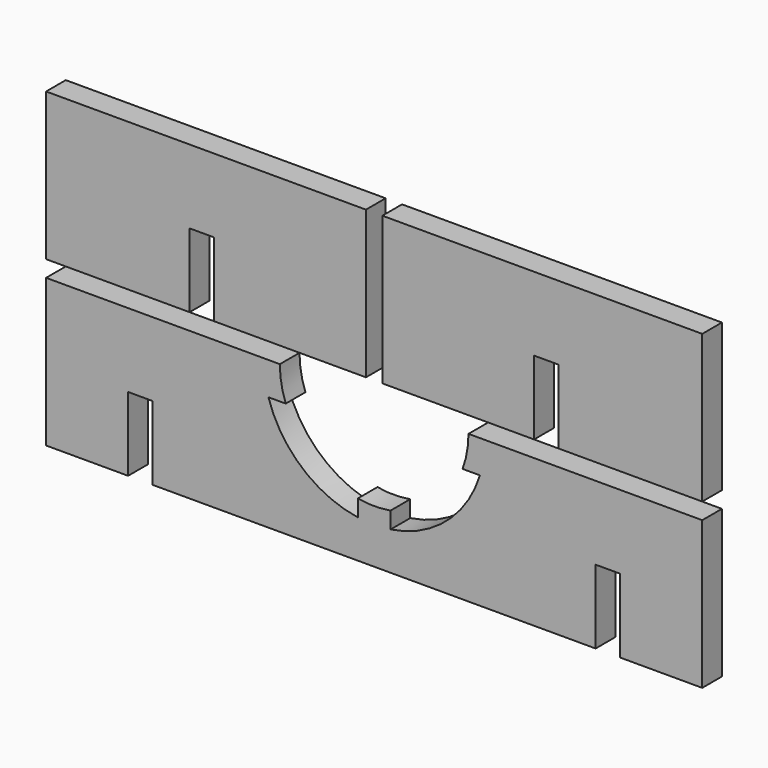
from build123d import *

# Parameters (mm, degrees)
F0_W     = 80
F0_H     = 18
F1_DEPTH = 3
F2_W     = 3
F2_H     = 9
F3_DEPTH = 3
F4_W     = 39
F4_H     = 18
F5_DEPTH = 3
F6_W     = 3
F6_H     = 9
F7_DEPTH = 3
F8_W     = 3
F8_H     = 9
F9_DEPTH = 3


with BuildPart() as f1:
    # F0 (on Front) → F1 (new body)
    with BuildSketch(Plane.XZ):
        Rectangle(F0_W, F0_H)
    extrude(amount=F1_DEPTH)

    # F2 (on face) → F3 (cut, through all)
    with BuildSketch(Plane.XZ.offset(3)):
        with BuildLine():
            ThreePointArc((-2, -2.324752), (-7.365964, 0.16866), (-10.781929, 5))
            Line((-10.781929, 5), (-12.893797, 5))
            ThreePointArc((-12.893797, 5), (-8.792994, -1.243694), (-2, -4.35103))
            Line((-2, -4.35103), (-2, -2.324752))
        make_face()
        with BuildLine():
            ThreePointArc((10.781929, 5), (7.365964, 0.16866), (2, -2.324752))
            Line((2, -2.324752), (2, -4.35103))
            ThreePointArc((2, -4.35103), (8.792994, -1.243694), (12.893797, 5))
            Line((12.893797, 5), (10.781929, 5))
        make_face()
        with Locations((-28.5, -4.5)):
            Rectangle(F2_W, F2_H)
        with Locations((28.5, -4.5)):
            Rectangle(F2_W, F2_H)
        with BuildLine():
            ThreePointArc((-11.5, 9), (-11.319059, 6.968029), (-10.781929, 5))
            ThreePointArc((-10.781929, 5), (-7.365964, 0.16866), (-2, -2.324752))
            ThreePointArc((-2, -2.324752), (0, -2.5), (2, -2.324752))
            ThreePointArc((2, -2.324752), (7.365964, 0.16866), (10.781929, 5))
            ThreePointArc((10.781929, 5), (11.319059, 6.968029), (11.5, 9))
            Line((11.5, 9), (-11.5, 9))
        make_face()
    extrude(amount=-F3_DEPTH, mode=Mode.SUBTRACT)


with BuildPart() as f5:
    # F4 (on Front) → F5 (new body)
    with BuildSketch(Plane.XZ):
        with Locations((-20.5, 20)):
            Rectangle(F4_W, F4_H)
        with Locations((20.5, 20)):
            Rectangle(F4_W, F4_H)
    extrude(amount=F5_DEPTH)

    # F6 (on face) → F7 (cut, through all)
    with BuildSketch(Plane.XZ.offset(3)):
        with Locations((-21, 15.5)):
            Rectangle(F6_W, F6_H)
    extrude(amount=-F7_DEPTH, mode=Mode.SUBTRACT)

    # F8 (on face) → F9 (cut, through all)
    with BuildSketch(Plane.XZ.offset(3)):
        with Locations((21, 15.5)):
            Rectangle(F8_W, F8_H)
    extrude(amount=-F9_DEPTH, mode=Mode.SUBTRACT)


solid = Compound([f1.part, f5.part])
